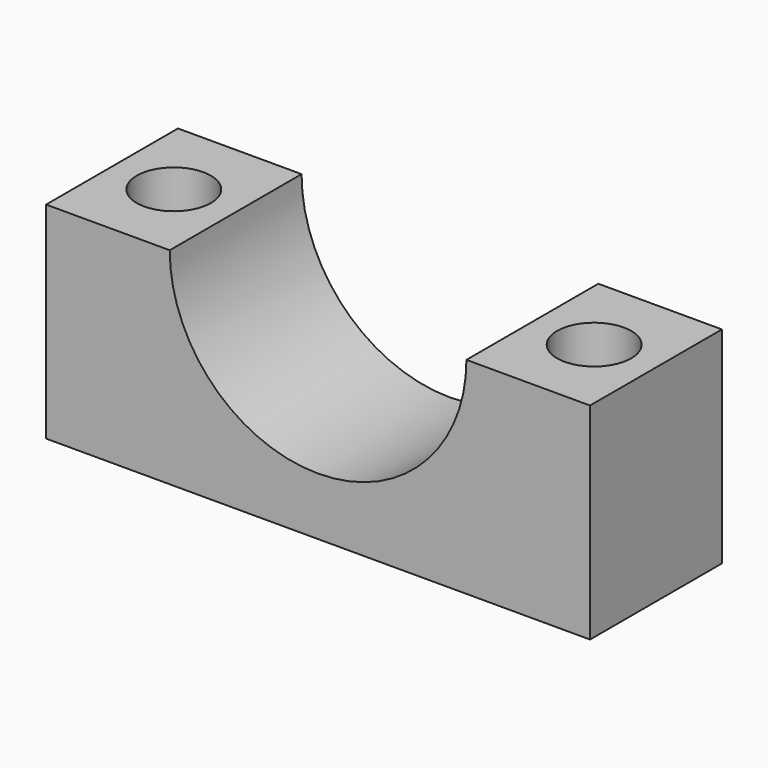
from build123d import *

# Parameters (mm, degrees)
F0_W     = 33
F0_H     = 10
F1_DEPTH = 12.5
F2_R     = 9
F3_DEPTH = 10
F4_R     = 2.25
F5_DEPTH = 12.5


with BuildPart() as f1:
    # F0 (on Top) → F1 (new body)
    with BuildSketch(Plane.XY):
        Rectangle(F0_W, F0_H)
    extrude(amount=F1_DEPTH)

    # F2 (on face) → F3 (cut)
    with BuildSketch(Plane.XZ.offset(5)):
        with Locations((0, 12.5)):
            Circle(F2_R)
    extrude(amount=-F3_DEPTH, mode=Mode.SUBTRACT)

    # F4 (on face) → F5 (cut)
    with BuildSketch(Plane.XY.offset(12.5)):
        with Locations((-12.75, 0)):
            Circle(F4_R)
        with Locations((12.75, 0)):
            Circle(F4_R)
    extrude(amount=-F5_DEPTH, mode=Mode.SUBTRACT)


solid = f1.part
